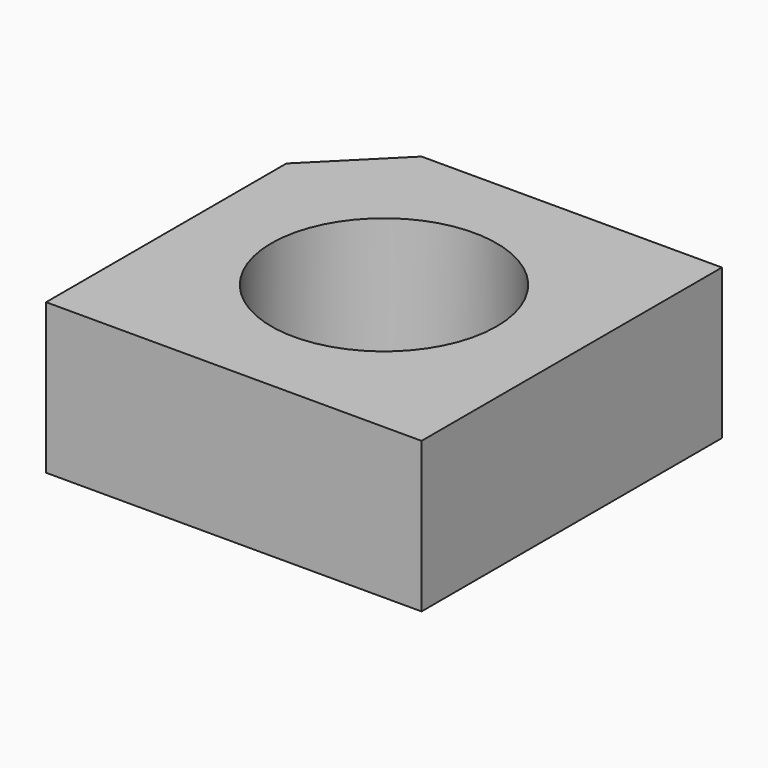
from build123d import *

# Parameters (mm, degrees)
F0_R     = 19.05
F1_DEPTH = 25.4


with BuildPart() as f1:
    # F0 (on Top) → F1 (new body)
    with BuildSketch(Plane.XY):
        Polygon((-63.5, 0), (0, 0), (0, 63.5), (-50.8, 63.5), (-63.5, 50.8), align=None)
        with Locations((-31.75, 31.75)):
            Circle(F0_R, mode=Mode.SUBTRACT)
    extrude(amount=F1_DEPTH)


solid = f1.part
